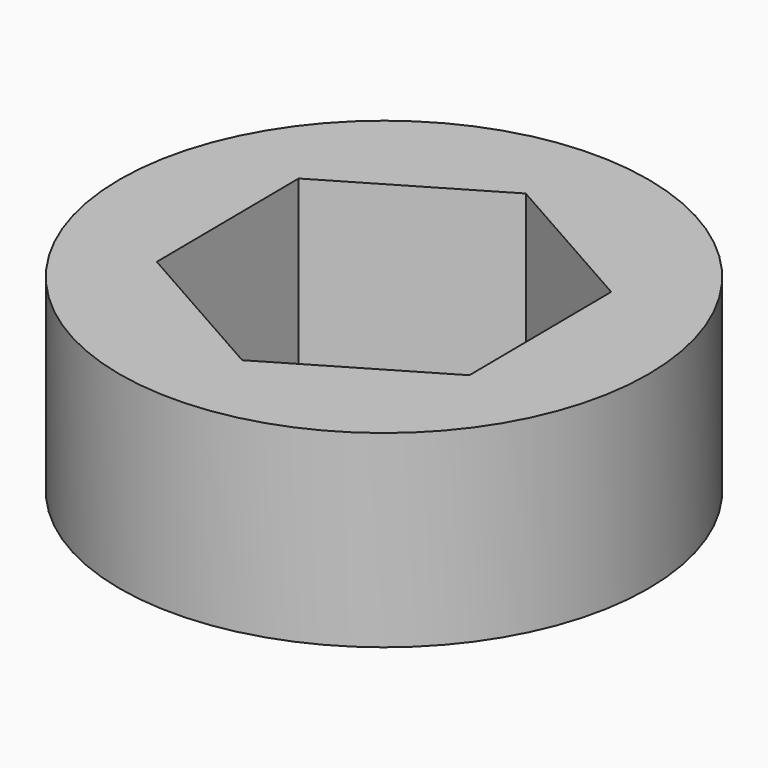
from build123d import *

# Parameters (mm, degrees)
F0_R     = 7
F1_DEPTH = 5


with BuildPart() as f1:
    # F0 (on Top) → F1 (new body)
    with BuildSketch(Plane.XY):
        with Locations((-20, 0)):
            Circle(F0_R)
        Polygon((-19.958085, -4.749815), (-24.092503, -2.411207), (-24.134418, 2.338608), (-20.041915, 4.749815), (-15.907497, 2.411207), (-15.865582, -2.338608), align=None, mode=Mode.SUBTRACT)
    extrude(amount=F1_DEPTH)


solid = f1.part
